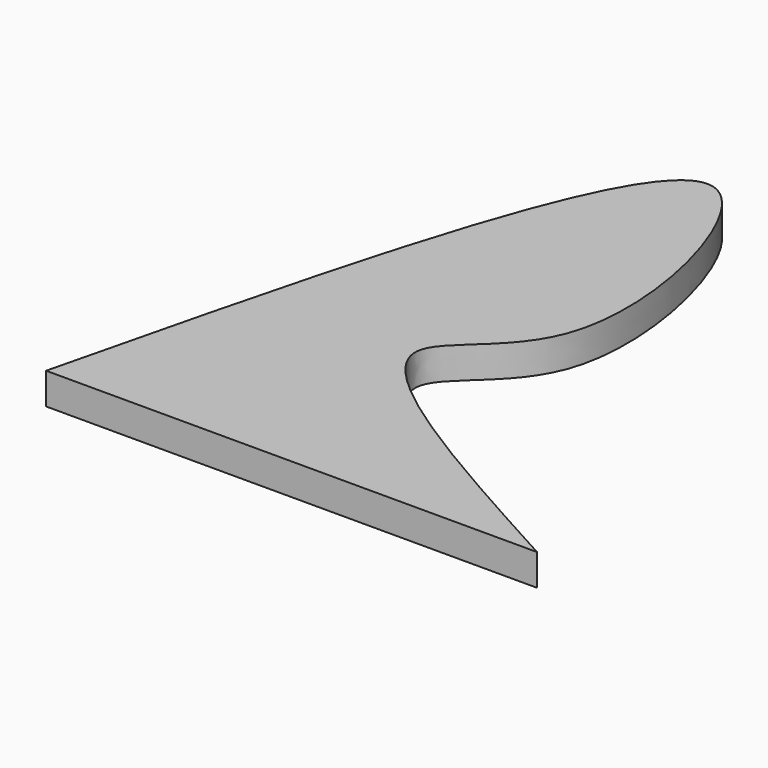
from build123d import *

# Parameters (mm, degrees)
F1_DEPTH = 3.7588570267


with BuildPart() as f1:
    # F0 (on Top) → F1 (new body)
    with BuildSketch(Plane.XY):
        with BuildLine():
            add(Edge.make_bspline(
                [(-58.6588084698, -79.0805220604), (-50.0163302851, -43.5433006445), (-35.6195593285, 15.6549429479), (-18.2358860421, -46.0167045308), (-44.6074831219, -54.598027232), (-17.1847340998, -69.6487933906), (0, -79.0805220604)],
                knots=[0, 0, 0, 0, 0.3471426777, 0.5782740082, 0.7357218147, 1, 1, 1, 1], degree=3))
            Line((-58.6588084698, -79.0805220604), (0, -79.0805220604))
        make_face()
        with BuildLine():
            add(Edge.make_bspline(
                [(-58.6588084698, -79.0805220604), (-50.0163302851, -43.5433006445), (-35.6195593285, 15.6549429479), (-18.2358860421, -46.0167045308), (-44.6074831219, -54.598027232), (-17.1847340998, -69.6487933906), (0, -79.0805220604)],
                knots=[0, 0, 0, 0, 0.3471426777, 0.5782740082, 0.7357218147, 1, 1, 1, 1], degree=3))
            Line((-58.6588084698, -79.0805220604), (0, -79.0805220604))
        make_face()
    extrude(amount=F1_DEPTH)


solid = f1.part
